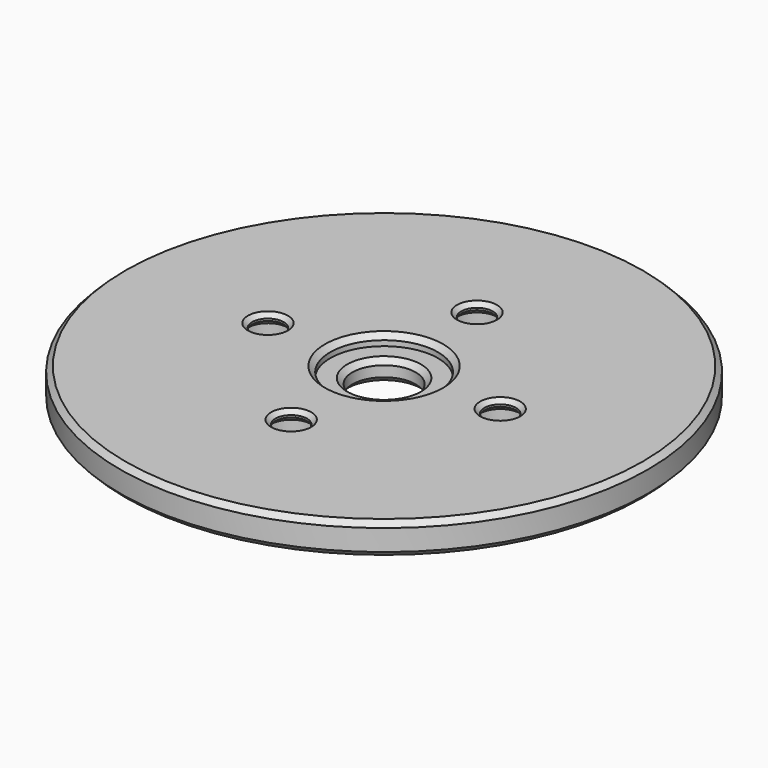
from build123d import *

# Parameters (mm, degrees)
SKETCH_R        = 25
SKETCH_R_2      = 1.5
PAD_DEPTH       = 3
SKETCH002_R     = 3
POCKET_DEPTH    = 4
SKETCH001_R     = 5.1
POCKET001_DEPTH = 1
SKETCH003_R     = 2.5
POCKET002_DEPTH = 2
CHAMFER_SIZE    = 0.5
CHAMFER001_SIZE = 0.5
CHAMFER002_SIZE = 0.5
CHAMFER003_SIZE = 0.4
CHAMFER004_SIZE = 0.5


with BuildPart() as part:
    # Sketch → Pad (new body)
    with BuildSketch(Plane.XY):
        Circle(SKETCH_R)
        with Locations((0, 11)):
            Circle(SKETCH_R_2, mode=Mode.SUBTRACT)
        with Locations((-11, 0)):
            Circle(SKETCH_R_2, mode=Mode.SUBTRACT)
        with Locations((0, -11)):
            Circle(SKETCH_R_2, mode=Mode.SUBTRACT)
        with Locations((11, 0)):
            Circle(SKETCH_R_2, mode=Mode.SUBTRACT)
    extrude(amount=PAD_DEPTH)

    # Sketch002 (on Face7 of Pad) → Pocket (cut)
    with BuildSketch(Plane.XY.offset(3)):
        Circle(SKETCH002_R)
    extrude(amount=-POCKET_DEPTH, mode=Mode.SUBTRACT)

    # Sketch001 (on Face7 of Pad) → Pocket001 (cut)
    with BuildSketch(Plane.XY.offset(3)):
        Circle(SKETCH001_R)
    extrude(amount=-POCKET001_DEPTH, mode=Mode.SUBTRACT)

    # Sketch003 (on Face2 of Pocket001) → Pocket002 (cut)
    with BuildSketch(Plane(origin=(0, 0, 0), x_dir=(1, 0, 0), z_dir=(0, 0, -1))):
        with Locations((0, 11)):
            Circle(SKETCH003_R)
        with Locations((11, 0)):
            Circle(SKETCH003_R)
        with Locations((0, -11)):
            Circle(SKETCH003_R)
        with Locations((-11, 0)):
            Circle(SKETCH003_R)
    extrude(amount=-POCKET002_DEPTH, mode=Mode.SUBTRACT)

    # Chamfer
    chamfer_edges = [part.edges().sort_by_distance(p)[0] for p in [
        (-25, 0, 3),
        (-25, 0, 0),
    ]]
    chamfer(chamfer_edges, length=CHAMFER_SIZE)

    # Chamfer001
    chamfer001_edges = [part.edges().sort_by_distance(p)[0] for p in [
        (-5.1, 0, 3),
    ]]
    chamfer(chamfer001_edges, length=CHAMFER001_SIZE)

    # Chamfer002
    chamfer002_edges = [part.edges().sort_by_distance(p)[0] for p in [
        (-3, 0, 2),
        (-3, 0, 0),
    ]]
    chamfer(chamfer002_edges, length=CHAMFER002_SIZE)

    # Chamfer003
    chamfer003_edges = [part.edges().sort_by_distance(p)[0] for p in [
        (-1.5, 11, 3),
        (-1.5, 11, 2),
        (-12.5, 0, 3),
        (-12.5, 0, 2),
        (9.5, 0, 3),
        (9.5, 0, 2),
        (-1.5, -11, 3),
        (-1.5, -11, 2),
    ]]
    chamfer(chamfer003_edges, length=CHAMFER003_SIZE)

    # Chamfer004
    chamfer004_edges = [part.edges().sort_by_distance(p)[0] for p in [
        (-13.5, 0, 0),
        (-2.5, 11, 0),
        (8.5, 0, 0),
        (-2.5, -11, 0),
    ]]
    chamfer(chamfer004_edges, length=CHAMFER004_SIZE)


solid = part.part
